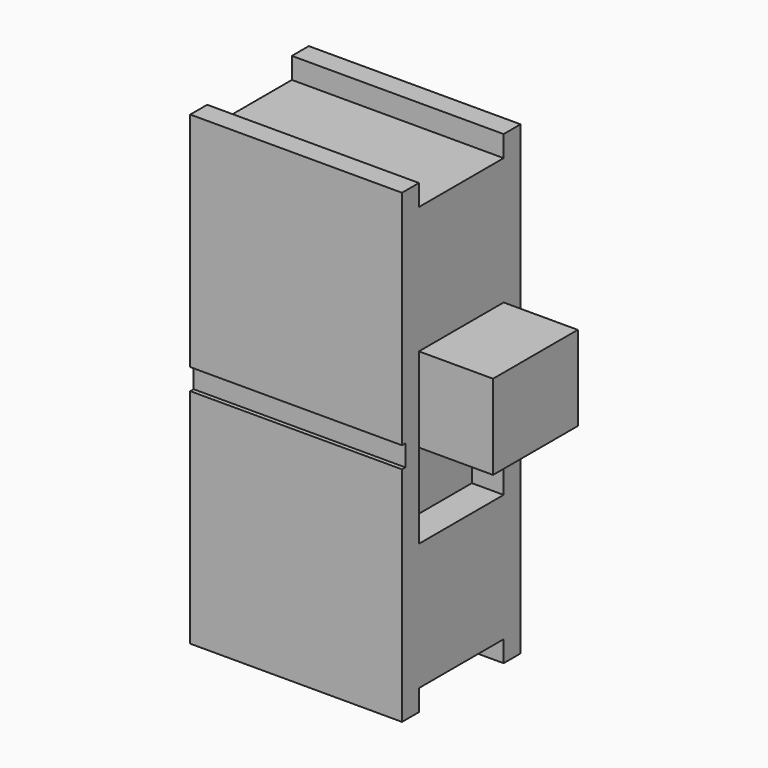
from build123d import *

# Parameters (mm, degrees)
F1_DEPTH = 5
F2_W     = 2.5
F2_H     = 4
F3_DEPTH = 0.75
F4_W     = 2.5
F4_H     = 2
F5_DEPTH = 2.5


with BuildPart() as f1:
    # F0 (on Right) → F1 (new body)
    with BuildSketch(Plane.YZ):
        Polygon((-11.0337002873, 0.3844816282), (-11.5337002873, 0.3844816282), (-11.5337002873, -4.8655183718), (-11.4337002873, -4.8655183718), (-11.4337002873, -5.3655183718), (-11.5337002873, -5.3655183718), (-11.5337002873, -10.6155183718), (-11.0337002873, -10.6155183718), (-11.0337002873, -10.1155183718), (-8.5337002873, -10.1155183718), (-8.5337002873, -10.6155183718), (-8.0337002873, -10.6155183718), (-8.0337002873, -5.3655183718), (-8.1337002873, -5.3655183718), (-8.1337002873, -4.8655183718), (-8.0337002873, -4.8655183718), (-8.0337002873, 0.3844816282), (-8.5337002873, 0.3844816282), (-8.5337002873, -0.1155183718), (-11.0337002873, -0.1155183718), align=None)
    extrude(amount=F1_DEPTH)

    # F2 (on face) → F3 (cut)
    with BuildSketch(Plane.YZ.offset(5)):
        with Locations((-9.7837002873, -5.1155183718)):
            Rectangle(F2_W, F2_H)
    extrude(amount=-F3_DEPTH, mode=Mode.SUBTRACT)


with BuildPart() as f5:
    # F4 (on face) → F5 (new body)
    with BuildSketch(Plane.YZ.offset(4.25)):
        with Locations((-9.7837002873, -4.1155183718)):
            Rectangle(F4_W, F4_H)
    extrude(amount=F5_DEPTH)


solid = Compound([f1.part, f5.part])
